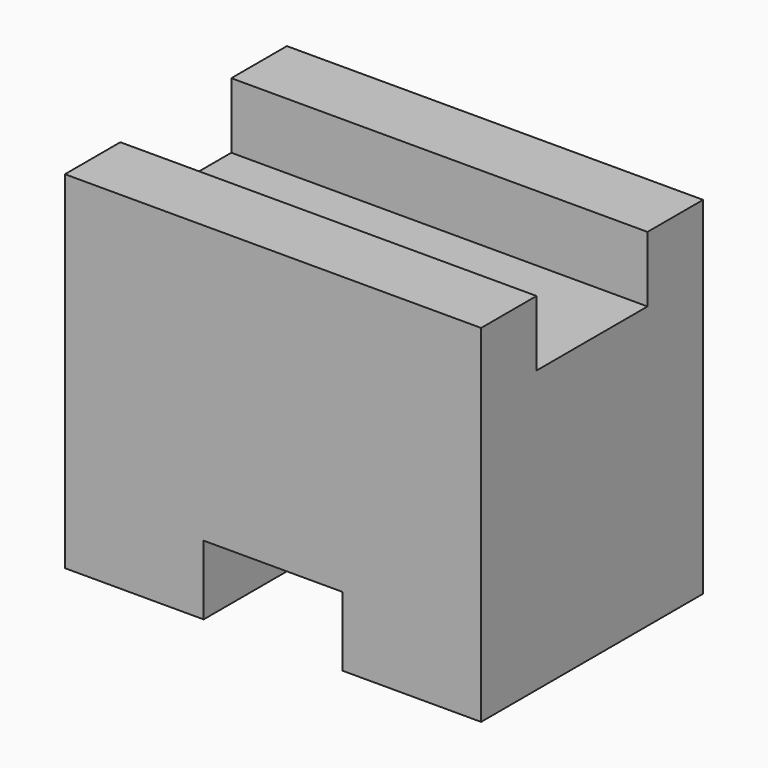
from build123d import *

# Parameters (mm, degrees)
F0_W     = 25.4
F0_H     = 31.75
F1_DEPTH = 38.1
F2_W     = 12.7
F2_H     = 6.35
F3_DEPTH = 38.101
F4_W     = 12.7
F4_H     = 6.35
F5_DEPTH = 25.401


with BuildPart() as f1:
    # F0 (on Right) → F1 (new body)
    with BuildSketch(Plane.YZ):
        with Locations((-12.7, 15.875)):
            Rectangle(F0_W, F0_H)
    extrude(amount=F1_DEPTH)

    # F2 (on Right) → F3 (cut, through all)
    with BuildSketch(Plane.YZ):
        with Locations((-12.709173, 28.916193)):
            Rectangle(F2_W, F2_H)
    extrude(amount=F3_DEPTH, mode=Mode.SUBTRACT)

    # F4 (on Front) → F5 (cut, through all)
    with BuildSketch(Plane.XZ):
        with Locations((19.05, 3.175)):
            Rectangle(F4_W, F4_H)
    extrude(amount=F5_DEPTH, mode=Mode.SUBTRACT)


solid = f1.part
